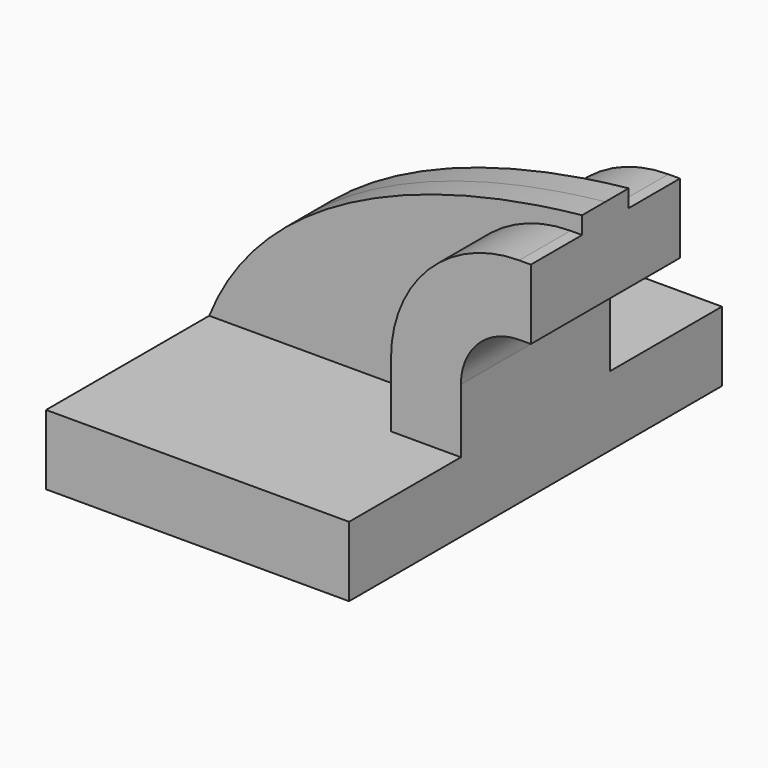
from build123d import *

# Parameters (mm, degrees)
F1_DEPTH = 63.5
F2_DEPTH = 25.4
F3_DEPTH = 7.9375


with BuildPart() as f1:
    # F0 (on Front) → F1 (new body, symmetric)
    with BuildSketch(Plane.XZ):
        Polygon((-41.275, -9.525), (41.275, -9.525), (41.275, 9.525), (22.225, 9.525), (-41.275, 9.525), align=None)
    extrude(amount=F1_DEPTH, both=True)

    # F0 (on Front) → F2 (join, symmetric)
    with BuildSketch(Plane.XZ):
        with BuildLine():
            Line((22.225, 9.525), (41.275, 9.525))
            Line((41.275, 9.525), (41.275, 27.0002))
            ThreePointArc((41.275, 27.0002), (45.92468, 38.22552), (57.15, 42.8752))
            Line((57.15, 42.8752), (60.325, 42.8752))
            Line((60.325, 42.8752), (60.325, 61.9252))
            Line((60.325, 61.9252), (57.15, 61.9252))
            ThreePointArc((57.15, 61.9252), (32.454296, 51.695904), (22.225, 27.0002))
            Line((22.225, 27.0002), (22.225, 9.525))
        make_face()
    extrude(amount=F2_DEPTH, both=True)

    # F0 (on Front) → F3 (join, symmetric)
    with BuildSketch(Plane.XZ):
        with BuildLine():
            add(Edge.make_bspline(
                [(-41.275, 9.525), (-26.669292, 46.137553), (18.325027, 62.395359), (60.325, 66.675)],
                knots=[0, 0, 0, 0, 116.570504, 116.570504, 116.570504, 116.570504], degree=3))
            Line((-41.275, 9.525), (22.225, 9.525))
            Line((22.225, 9.525), (22.225, 27.0002))
            ThreePointArc((22.225, 27.0002), (32.454296, 51.695904), (57.15, 61.9252))
            Line((57.15, 61.9252), (60.325, 61.9252))
            Line((60.325, 61.9252), (60.325, 66.675))
        make_face()
    extrude(amount=F3_DEPTH, both=True)


solid = f1.part
